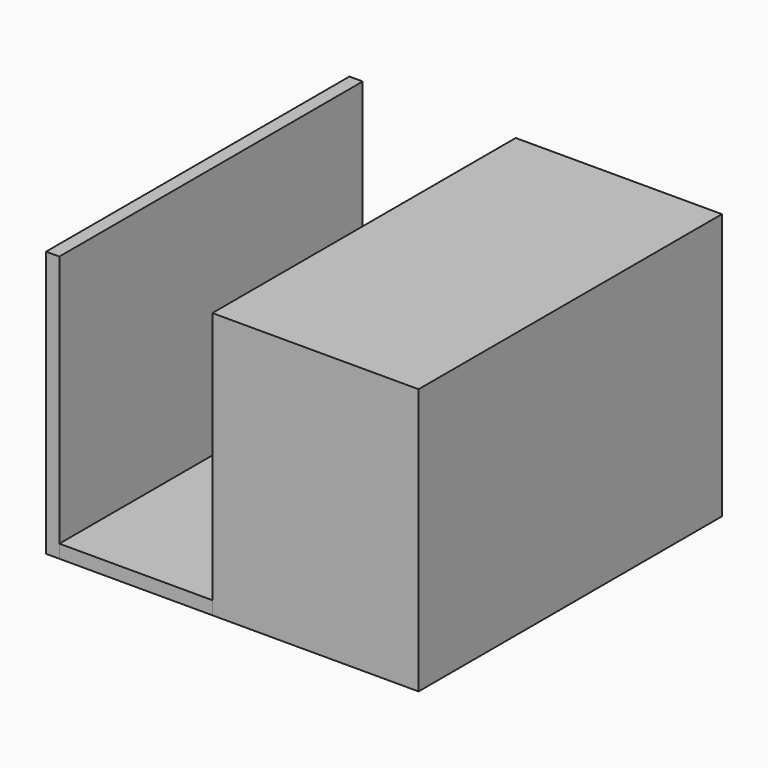
from build123d import *

# Parameters (mm, degrees)
F0_W     = 2
F0_H     = 57
F0_W_2   = 31
F0_W_3   = 27
F0_H_2   = 53
F1_DEPTH = 40
F0_W_4   = 23
F2_DEPTH = 2
F3_DEPTH = 40
F4_DEPTH = 38


with BuildPart() as f1:
    # F0 (on Top) → F1 (new body)
    with BuildSketch(Plane.XY):
        with Locations((-1.844285, 18.77621)):
            Rectangle(F0_W, F0_H)
        with Locations((37.655715, 18.77621)):
            Rectangle(F0_W_2, F0_H)
        with Locations((37.655715, 18.77621)):
            Rectangle(F0_W_3, F0_H_2, mode=Mode.SUBTRACT)
    extrude(amount=F1_DEPTH)

    # F0 (on Top) → F3 (join)
    with BuildSketch(Plane.XY):
        with Locations((37.655715, 18.77621)):
            Rectangle(F0_W_3, F0_H_2)
    extrude(amount=F3_DEPTH)

    # F0 (on Top) → F4 (cut)
    with BuildSketch(Plane.XY):
        with Locations((37.655715, 18.77621)):
            Rectangle(F0_W_3, F0_H_2)
    extrude(amount=F4_DEPTH, mode=Mode.SUBTRACT)


with BuildPart() as f2:
    # F0 (on Top) → F2 (new body)
    with BuildSketch(Plane.XY):
        with Locations((10.655715, 18.77621)):
            Rectangle(F0_W_4, F0_H)
    extrude(amount=F2_DEPTH)


solid = Compound([f1.part, f2.part])
